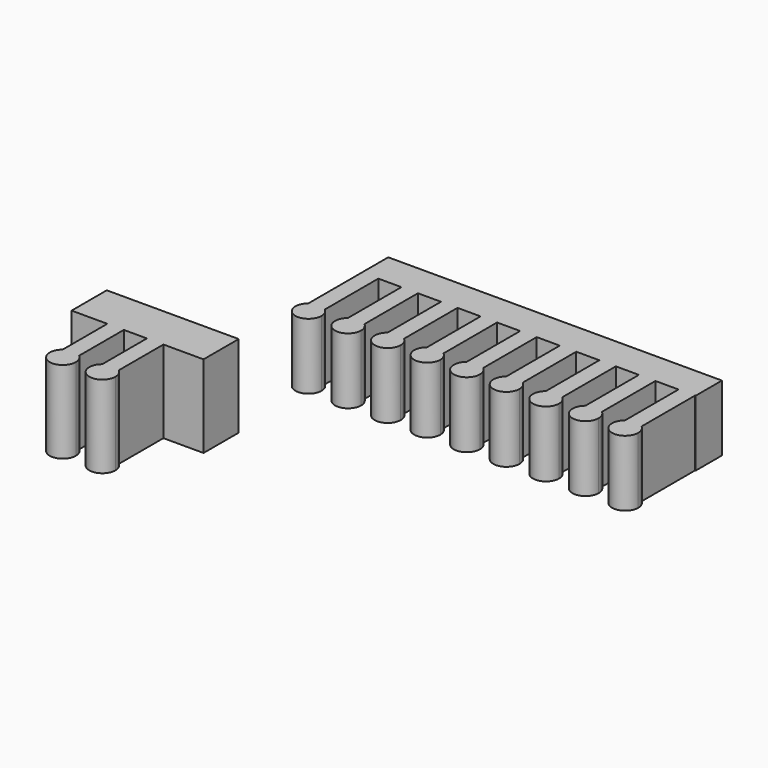
from build123d import *

# Parameters (mm, degrees)
F0_W     = 3
F0_H     = 6
F0_W_2   = 4.2
F0_W_3   = 0.1
F1_DEPTH = 12
F2_W     = 3
F2_H     = 6
F2_W_2   = 2.5
F2_W_3   = 1.7
F2_W_4   = 0.8
F3_DEPTH = 15


with BuildPart() as f1:
    # F0 (on Top) → F1 (new body)
    with BuildSketch(Plane.XY):
        with Locations((-59.9772681922, 45.4818769696)):
            Rectangle(F0_W, F0_H)
        with Locations((-56.3772681922, 45.4818769696)):
            Rectangle(F0_W_2, F0_H)
        with BuildLine():
            Line((-58.4772681922, 42.4818769696), (-61.4772681922, 42.4818769696))
            Line((-61.4772681922, 42.4818769696), (-61.4772681922, 30.3232419525))
            ThreePointArc((-61.4772681922, 30.3232419525), (-59.9772681922, 30.8568769696), (-58.4772681922, 30.3232419525))
            Line((-58.4772681922, 30.3232419525), (-58.4772681922, 42.4818769696))
        make_face()
        with Locations((-52.7772681922, 45.4818769696)):
            Rectangle(F0_W, F0_H)
        with BuildLine():
            ThreePointArc((-58.4772681922, 30.3232419525), (-59.9772681922, 30.8568769696), (-61.4772681922, 30.3232419525))
            Line((-61.4772681922, 30.3232419525), (-61.4772681922, 28.4818769696))
            Line((-61.4772681922, 28.4818769696), (-58.4772681922, 28.4818769696))
            Line((-58.4772681922, 28.4818769696), (-58.4772681922, 30.3232419525))
        make_face()
        with BuildLine():
            Line((-61.4772681922, 28.4818769696), (-61.4772681922, 30.3232419525))
            ThreePointArc((-61.4772681922, 30.3232419525), (-60.9966123441, 26.3367516819), (-57.6022681922, 28.4818769696))
            ThreePointArc((-57.6022681922, 28.4818769696), (-57.8321429045, 29.5012211215), (-58.4772681922, 30.3232419525))
            Line((-58.4772681922, 30.3232419525), (-58.4772681922, 28.4818769696))
            Line((-58.4772681922, 28.4818769696), (-61.4772681922, 28.4818769696))
        make_face()
        with Locations((-49.1772681922, 45.4818769696)):
            Rectangle(F0_W_2, F0_H)
        with BuildLine():
            Line((-51.2772681922, 42.4818769696), (-54.2772681922, 42.4818769696))
            Line((-54.2772681922, 42.4818769696), (-54.2772681922, 30.3232419525))
            ThreePointArc((-54.2772681922, 30.3232419525), (-52.7772681922, 30.8568769696), (-51.2772681922, 30.3232419525))
            Line((-51.2772681922, 30.3232419525), (-51.2772681922, 42.4818769696))
        make_face()
        with Locations((-45.5772681922, 45.4818769696)):
            Rectangle(F0_W, F0_H)
        with BuildLine():
            ThreePointArc((-51.2772681922, 30.3232419525), (-52.7772681922, 30.8568769696), (-54.2772681922, 30.3232419525))
            Line((-54.2772681922, 30.3232419525), (-54.2772681922, 28.4818769696))
            Line((-54.2772681922, 28.4818769696), (-51.2772681922, 28.4818769696))
            Line((-51.2772681922, 28.4818769696), (-51.2772681922, 30.3232419525))
        make_face()
        with BuildLine():
            Line((-54.2772681922, 28.4818769696), (-54.2772681922, 30.3232419525))
            ThreePointArc((-54.2772681922, 30.3232419525), (-53.7966123441, 26.3367516819), (-50.4022681922, 28.4818769696))
            ThreePointArc((-50.4022681922, 28.4818769696), (-50.6321429045, 29.5012211215), (-51.2772681922, 30.3232419525))
            Line((-51.2772681922, 30.3232419525), (-51.2772681922, 28.4818769696))
            Line((-51.2772681922, 28.4818769696), (-54.2772681922, 28.4818769696))
        make_face()
        with Locations((-41.9772681922, 45.4818769696)):
            Rectangle(F0_W_2, F0_H)
        with BuildLine():
            Line((-44.0772681922, 42.4818769696), (-47.0772681922, 42.4818769696))
            Line((-47.0772681922, 42.4818769696), (-47.0772681922, 30.3232419525))
            ThreePointArc((-47.0772681922, 30.3232419525), (-45.5772681922, 30.8568769696), (-44.0772681922, 30.3232419525))
            Line((-44.0772681922, 30.3232419525), (-44.0772681922, 42.4818769696))
        make_face()
        with Locations((-38.3772681922, 45.4818769696)):
            Rectangle(F0_W, F0_H)
        with BuildLine():
            ThreePointArc((-44.0772681922, 30.3232419525), (-45.5772681922, 30.8568769696), (-47.0772681922, 30.3232419525))
            Line((-47.0772681922, 30.3232419525), (-47.0772681922, 28.4818769696))
            Line((-47.0772681922, 28.4818769696), (-44.0772681922, 28.4818769696))
            Line((-44.0772681922, 28.4818769696), (-44.0772681922, 30.3232419525))
        make_face()
        with BuildLine():
            Line((-47.0772681922, 28.4818769696), (-47.0772681922, 30.3232419525))
            ThreePointArc((-47.0772681922, 30.3232419525), (-46.5966123441, 26.3367516819), (-43.2022681922, 28.4818769696))
            ThreePointArc((-43.2022681922, 28.4818769696), (-43.4321429045, 29.5012211215), (-44.0772681922, 30.3232419525))
            Line((-44.0772681922, 30.3232419525), (-44.0772681922, 28.4818769696))
            Line((-44.0772681922, 28.4818769696), (-47.0772681922, 28.4818769696))
        make_face()
        with Locations((-34.7772681922, 45.4818769696)):
            Rectangle(F0_W_2, F0_H)
        with BuildLine():
            Line((-36.8772681922, 42.4818769696), (-39.8772681922, 42.4818769696))
            Line((-39.8772681922, 42.4818769696), (-39.8772681922, 30.3232419525))
            ThreePointArc((-39.8772681922, 30.3232419525), (-38.3772681922, 30.8568769696), (-36.8772681922, 30.3232419525))
            Line((-36.8772681922, 30.3232419525), (-36.8772681922, 42.4818769696))
        make_face()
        with Locations((-31.1772681922, 45.4818769696)):
            Rectangle(F0_W, F0_H)
        with BuildLine():
            ThreePointArc((-36.8772681922, 30.3232419525), (-38.3772681922, 30.8568769696), (-39.8772681922, 30.3232419525))
            Line((-39.8772681922, 30.3232419525), (-39.8772681922, 28.4818769696))
            Line((-39.8772681922, 28.4818769696), (-36.8772681922, 28.4818769696))
            Line((-36.8772681922, 28.4818769696), (-36.8772681922, 30.3232419525))
        make_face()
        with BuildLine():
            Line((-39.8772681922, 28.4818769696), (-39.8772681922, 30.3232419525))
            ThreePointArc((-39.8772681922, 30.3232419525), (-39.3966123441, 26.3367516819), (-36.0022681922, 28.4818769696))
            ThreePointArc((-36.0022681922, 28.4818769696), (-36.2321429045, 29.5012211215), (-36.8772681922, 30.3232419525))
            Line((-36.8772681922, 30.3232419525), (-36.8772681922, 28.4818769696))
            Line((-36.8772681922, 28.4818769696), (-39.8772681922, 28.4818769696))
        make_face()
        with Locations((-27.5772681922, 45.4818769696)):
            Rectangle(F0_W_2, F0_H)
        with BuildLine():
            Line((-29.6772681922, 42.4818769696), (-32.6772681922, 42.4818769696))
            Line((-32.6772681922, 42.4818769696), (-32.6772681922, 30.3232419525))
            ThreePointArc((-32.6772681922, 30.3232419525), (-31.1772681922, 30.8568769696), (-29.6772681922, 30.3232419525))
            Line((-29.6772681922, 30.3232419525), (-29.6772681922, 42.4818769696))
        make_face()
        with Locations((-23.9772681922, 45.4818769696)):
            Rectangle(F0_W, F0_H)
        with BuildLine():
            ThreePointArc((-29.6772681922, 30.3232419525), (-31.1772681922, 30.8568769696), (-32.6772681922, 30.3232419525))
            Line((-32.6772681922, 30.3232419525), (-32.6772681922, 28.4818769696))
            Line((-32.6772681922, 28.4818769696), (-29.6772681922, 28.4818769696))
            Line((-29.6772681922, 28.4818769696), (-29.6772681922, 30.3232419525))
        make_face()
        with BuildLine():
            Line((-32.6772681922, 28.4818769696), (-32.6772681922, 30.3232419525))
            ThreePointArc((-32.6772681922, 30.3232419525), (-32.1966123441, 26.3367516819), (-28.8022681922, 28.4818769696))
            ThreePointArc((-28.8022681922, 28.4818769696), (-29.0321429045, 29.5012211215), (-29.6772681922, 30.3232419525))
            Line((-29.6772681922, 30.3232419525), (-29.6772681922, 28.4818769696))
            Line((-29.6772681922, 28.4818769696), (-32.6772681922, 28.4818769696))
        make_face()
        with Locations((-20.3772681922, 45.4818769696)):
            Rectangle(F0_W_2, F0_H)
        with BuildLine():
            Line((-22.4772681922, 42.4818769696), (-25.4772681922, 42.4818769696))
            Line((-25.4772681922, 42.4818769696), (-25.4772681922, 30.3232419525))
            ThreePointArc((-25.4772681922, 30.3232419525), (-23.9772681922, 30.8568769696), (-22.4772681922, 30.3232419525))
            Line((-22.4772681922, 30.3232419525), (-22.4772681922, 42.4818769696))
        make_face()
        with Locations((-16.7772681922, 45.4818769696)):
            Rectangle(F0_W, F0_H)
        with BuildLine():
            ThreePointArc((-22.4772681922, 30.3232419525), (-23.9772681922, 30.8568769696), (-25.4772681922, 30.3232419525))
            Line((-25.4772681922, 30.3232419525), (-25.4772681922, 28.4818769696))
            Line((-25.4772681922, 28.4818769696), (-22.4772681922, 28.4818769696))
            Line((-22.4772681922, 28.4818769696), (-22.4772681922, 30.3232419525))
        make_face()
        with BuildLine():
            Line((-25.4772681922, 28.4818769696), (-25.4772681922, 30.3232419525))
            ThreePointArc((-25.4772681922, 30.3232419525), (-24.9966123441, 26.3367516819), (-21.6022681922, 28.4818769696))
            ThreePointArc((-21.6022681922, 28.4818769696), (-21.8321429045, 29.5012211215), (-22.4772681922, 30.3232419525))
            Line((-22.4772681922, 30.3232419525), (-22.4772681922, 28.4818769696))
            Line((-22.4772681922, 28.4818769696), (-25.4772681922, 28.4818769696))
        make_face()
        with Locations((-13.1772681922, 45.4818769696)):
            Rectangle(F0_W_2, F0_H)
        with BuildLine():
            Line((-15.2772681922, 42.4818769696), (-18.2772681922, 42.4818769696))
            Line((-18.2772681922, 42.4818769696), (-18.2772681922, 30.3232419525))
            ThreePointArc((-18.2772681922, 30.3232419525), (-16.7772681922, 30.8568769696), (-15.2772681922, 30.3232419525))
            Line((-15.2772681922, 30.3232419525), (-15.2772681922, 42.4818769696))
        make_face()
        with Locations((-9.5772681922, 45.4818769696)):
            Rectangle(F0_W, F0_H)
        with BuildLine():
            ThreePointArc((-15.2772681922, 30.3232419525), (-16.7772681922, 30.8568769696), (-18.2772681922, 30.3232419525))
            Line((-18.2772681922, 30.3232419525), (-18.2772681922, 28.4818769696))
            Line((-18.2772681922, 28.4818769696), (-15.2772681922, 28.4818769696))
            Line((-15.2772681922, 28.4818769696), (-15.2772681922, 30.3232419525))
        make_face()
        with BuildLine():
            Line((-18.2772681922, 28.4818769696), (-18.2772681922, 30.3232419525))
            ThreePointArc((-18.2772681922, 30.3232419525), (-17.7966123441, 26.3367516819), (-14.4022681922, 28.4818769696))
            ThreePointArc((-14.4022681922, 28.4818769696), (-14.6321429045, 29.5012211215), (-15.2772681922, 30.3232419525))
            Line((-15.2772681922, 30.3232419525), (-15.2772681922, 28.4818769696))
            Line((-15.2772681922, 28.4818769696), (-18.2772681922, 28.4818769696))
        make_face()
        with Locations((-5.9772681922, 45.4818769696)):
            Rectangle(F0_W_2, F0_H)
        with BuildLine():
            Line((-8.0772681922, 42.4818769696), (-11.0772681922, 42.4818769696))
            Line((-11.0772681922, 42.4818769696), (-11.0772681922, 30.3232419525))
            ThreePointArc((-11.0772681922, 30.3232419525), (-9.5772681922, 30.8568769696), (-8.0772681922, 30.3232419525))
            Line((-8.0772681922, 30.3232419525), (-8.0772681922, 42.4818769696))
        make_face()
        with Locations((-2.3772681922, 45.4818769696)):
            Rectangle(F0_W, F0_H)
        with BuildLine():
            ThreePointArc((-8.0772681922, 30.3232419525), (-9.5772681922, 30.8568769696), (-11.0772681922, 30.3232419525))
            Line((-11.0772681922, 30.3232419525), (-11.0772681922, 28.4818769696))
            Line((-11.0772681922, 28.4818769696), (-8.0772681922, 28.4818769696))
            Line((-8.0772681922, 28.4818769696), (-8.0772681922, 30.3232419525))
        make_face()
        with BuildLine():
            Line((-11.0772681922, 28.4818769696), (-11.0772681922, 30.3232419525))
            ThreePointArc((-11.0772681922, 30.3232419525), (-10.5966123441, 26.3367516819), (-7.2022681922, 28.4818769696))
            ThreePointArc((-7.2022681922, 28.4818769696), (-7.4321429045, 29.5012211215), (-8.0772681922, 30.3232419525))
            Line((-8.0772681922, 30.3232419525), (-8.0772681922, 28.4818769696))
            Line((-8.0772681922, 28.4818769696), (-11.0772681922, 28.4818769696))
        make_face()
        with Locations((-0.8272681922, 45.4818769696)):
            Rectangle(F0_W_3, F0_H)
        with BuildLine():
            Line((-0.8772681922, 42.4818769696), (-3.8772681922, 42.4818769696))
            Line((-3.8772681922, 42.4818769696), (-3.8772681922, 30.3232419525))
            ThreePointArc((-3.8772681922, 30.3232419525), (-2.3772681922, 30.8568769696), (-0.8772681922, 30.3232419525))
            Line((-0.8772681922, 30.3232419525), (-0.8772681922, 42.4818769696))
        make_face()
        with BuildLine():
            ThreePointArc((-0.8772681922, 30.3232419525), (-2.3772681922, 30.8568769696), (-3.8772681922, 30.3232419525))
            Line((-3.8772681922, 30.3232419525), (-3.8772681922, 28.4818769696))
            Line((-3.8772681922, 28.4818769696), (-0.8772681922, 28.4818769696))
            Line((-0.8772681922, 28.4818769696), (-0.8772681922, 30.3232419525))
        make_face()
        with BuildLine():
            Line((-3.8772681922, 28.4818769696), (-3.8772681922, 30.3232419525))
            ThreePointArc((-3.8772681922, 30.3232419525), (-3.3966123441, 26.3367516819), (-0.0022681922, 28.4818769696))
            ThreePointArc((-0.0022681922, 28.4818769696), (-0.2321429045, 29.5012211215), (-0.8772681922, 30.3232419525))
            Line((-0.8772681922, 30.3232419525), (-0.8772681922, 28.4818769696))
            Line((-0.8772681922, 28.4818769696), (-3.8772681922, 28.4818769696))
        make_face()
    extrude(amount=F1_DEPTH)


with BuildPart() as f3:
    # F2 (on Top) → F3 (new body)
    with BuildSketch(Plane.XY):
        Polygon((-76.2500009537, 3.0799796343), (-76.2500009537, 9.0799796343), (-73.2500009537, 9.0799796343), (-70.7500009537, 9.0799796343), (-70.7500009537, 11.0799796343), (-82.7500009537, 11.0799796343), (-82.7500009537, 3.0799796343), align=None)
        with Locations((-74.7500009537, 6.0799796343)):
            Rectangle(F2_W, F2_H)
        with Locations((-72.0000009537, 6.0799796343)):
            Rectangle(F2_W_2, F2_H)
        with BuildLine():
            Line((-73.2500009537, 3.0799796343), (-76.2500009537, 3.0799796343))
            Line((-76.2500009537, 3.0799796343), (-76.2500009537, -7.0786553828))
            ThreePointArc((-76.2500009537, -7.0786553828), (-74.7500009537, -6.5450203657), (-73.2500009537, -7.0786553828))
            Line((-73.2500009537, -7.0786553828), (-73.2500009537, 3.0799796343))
        make_face()
        Polygon((-70.7500009537, 11.0799796343), (-70.7500009537, 9.0799796343), (-69.0500009537, 9.0799796343), (-66.0500009537, 9.0799796343), (-65.2500009537, 9.0799796343), (-65.2500009537, 3.0799796343), (-58.7500009537, 3.0799796343), (-58.7500009537, 11.0799796343), align=None)
        with Locations((-69.9000009537, 6.0799796343)):
            Rectangle(F2_W_3, F2_H)
        with BuildLine():
            ThreePointArc((-73.2500009537, -7.0786553828), (-74.7500009537, -6.5450203657), (-76.2500009537, -7.0786553828))
            Line((-76.2500009537, -7.0786553828), (-76.2500009537, -8.9200203657))
            Line((-76.2500009537, -8.9200203657), (-73.2500009537, -8.9200203657))
            Line((-73.2500009537, -8.9200203657), (-73.2500009537, -7.0786553828))
        make_face()
        with BuildLine():
            Line((-76.2500009537, -8.9200203657), (-76.2500009537, -7.0786553828))
            ThreePointArc((-76.2500009537, -7.0786553828), (-75.7693451056, -11.0651456534), (-72.3750009537, -8.9200203657))
            ThreePointArc((-72.3750009537, -8.9200203657), (-72.604875666, -7.9006762138), (-73.2500009537, -7.0786553828))
            Line((-73.2500009537, -7.0786553828), (-73.2500009537, -8.9200203657))
            Line((-73.2500009537, -8.9200203657), (-76.2500009537, -8.9200203657))
        make_face()
        with Locations((-67.5500009537, 6.0799796343)):
            Rectangle(F2_W, F2_H)
        with Locations((-65.6500009537, 6.0799796343)):
            Rectangle(F2_W_4, F2_H)
        with BuildLine():
            Line((-66.0500009537, 3.0799796343), (-69.0500009537, 3.0799796343))
            Line((-69.0500009537, 3.0799796343), (-69.0500009537, -7.0786553828))
            ThreePointArc((-69.0500009537, -7.0786553828), (-67.5500009537, -6.5450203657), (-66.0500009537, -7.0786553828))
            Line((-66.0500009537, -7.0786553828), (-66.0500009537, 3.0799796343))
        make_face()
        with BuildLine():
            ThreePointArc((-66.0500009537, -7.0786553828), (-67.5500009537, -6.5450203657), (-69.0500009537, -7.0786553828))
            Line((-69.0500009537, -7.0786553828), (-69.0500009537, -8.9200203657))
            Line((-69.0500009537, -8.9200203657), (-66.0500009537, -8.9200203657))
            Line((-66.0500009537, -8.9200203657), (-66.0500009537, -7.0786553828))
        make_face()
        with BuildLine():
            Line((-69.0500009537, -8.9200203657), (-69.0500009537, -7.0786553828))
            ThreePointArc((-69.0500009537, -7.0786553828), (-68.5693451056, -11.0651456534), (-65.1750009537, -8.9200203657))
            ThreePointArc((-65.1750009537, -8.9200203657), (-65.404875666, -7.9006762138), (-66.0500009537, -7.0786553828))
            Line((-66.0500009537, -7.0786553828), (-66.0500009537, -8.9200203657))
            Line((-66.0500009537, -8.9200203657), (-69.0500009537, -8.9200203657))
        make_face()
    extrude(amount=F3_DEPTH)


solid = Compound([f1.part, f3.part])
